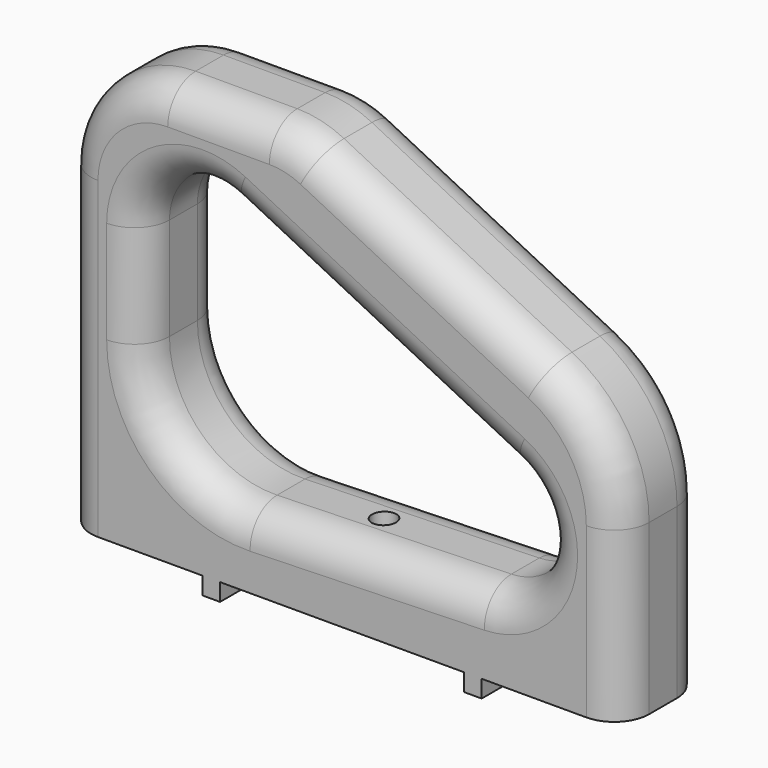
from build123d import *

# Parameters (mm, degrees)
F1_DEPTH = 38.1
F2_R     = 12.7
F3_R     = 4.365625
F4_DEPTH = 27.2490523559
F5_W     = 6.35
F5_H     = 38.1
F6_DEPTH = 6.35


with BuildPart() as f1:
    # F0 (on Front) → F1 (new body)
    with BuildSketch(Plane.XZ):
        with BuildLine():
            Line((0, 114.3), (0, 0))
            Line((0, 0), (203.2, 0))
            Line((203.2, 0), (203.2, 61.4492737428))
            ThreePointArc((203.2, 61.4492737428), (195.6130610643, 88.1564142385), (175.1184506514, 106.8861750456))
            Line((175.1184506514, 106.8861750456), (92.1354487885, 148.3776759771))
            ThreePointArc((92.1354487885, 148.3776759771), (83.8501970728, 151.3807864987), (75.0966107999, 152.4))
            Line((75.0966107999, 152.4), (38.1, 152.4))
            ThreePointArc((38.1, 152.4), (11.1592316368, 141.2407683632), (0, 114.3))
        make_face()
        with BuildLine():
            ThreePointArc((28.575, 101.6), (39.1156260332, 120.5057142156), (60.73932216, 121.47864432))
            Line((60.73932216, 121.47864432), (162.33932216, 70.67864432))
            ThreePointArc((162.33932216, 70.67864432), (174.100727981, 46.0011428347), (153.0305820147, 28.5839474406))
            Line((153.0305820147, 28.5839474406), (67.7559977395, 26.1635075802))
            ThreePointArc((67.7559977395, 26.1635075802), (40.119172145, 36.9278834801), (28.575, 64.2481691106))
            Line((28.575, 64.2481691106), (28.575, 101.6))
        make_face(mode=Mode.SUBTRACT)
    extrude(amount=F1_DEPTH)

    # F2
    f2_edges = [f1.edges().sort_by_distance(p)[0] for p in [
        (56.598305, -38.1, 152.4),
        (111.539322, -38.1, 96.078644),
        (111.539322, 0, 96.078644),
        (133.62695, 0, 127.631926),
    ]]
    fillet(f2_edges, radius=F2_R)

    # F3 (on face) → F4 (cut, through all)
    with BuildSketch(Plane(origin=(0, 0, 0), x_dir=(1, 0, 0), z_dir=(0, 0, -1))):
        with Locations((101.6, 19.05)):
            Circle(F3_R)
    extrude(amount=-F4_DEPTH, mode=Mode.SUBTRACT)

    # F5 (on face) → F6 (join)
    with BuildSketch(Plane(origin=(0, 0, 0), x_dir=(1, 0, 0), z_dir=(0, 0, -1))):
        with Locations((53.975, 19.05)):
            Rectangle(F5_W, F5_H)
        with Locations((149.225, 19.05)):
            Rectangle(F5_W, F5_H)
    extrude(amount=F6_DEPTH)


solid = f1.part
